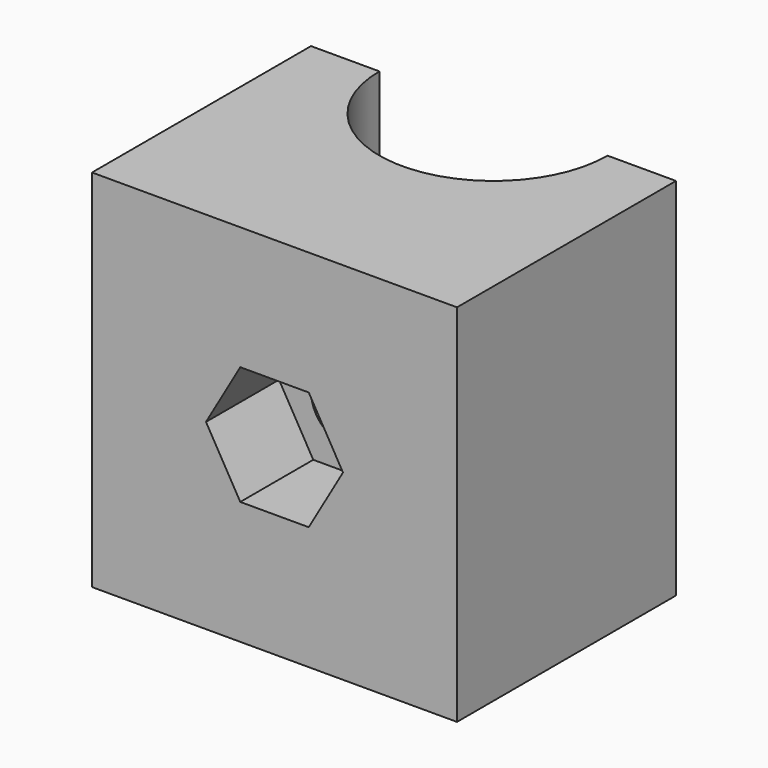
from build123d import *

# Parameters (mm, degrees)
F1_DEPTH = 40
F3_DEPTH = 30.001
F4_DEPTH = 10


with BuildPart() as f1:
    # F0 (on Top) → F1 (new body)
    with BuildSketch(Plane.XY):
        with BuildLine():
            Line((-20, -15), (20, -15))
            Line((20, -15), (20, 15))
            Line((20, 15), (12.5, 15))
            ThreePointArc((12.5, 15), (0, 2.5), (-12.5, 15))
            Line((-12.5, 15), (-20, 15))
            Line((-20, 15), (-20, -15))
        make_face()
    extrude(amount=F1_DEPTH)

    # F2 (on face) → F3 (cut, through all)
    with BuildSketch(Plane.XZ.offset(15)):
        with BuildLine():
            Line((0, 20), (-4, 20))
            ThreePointArc((-4, 20), (-2.8284271247, 17.1715728753), (0, 16))
            Line((0, 16), (0, 20))
        make_face()
        with BuildLine():
            Line((4, 20), (0, 20))
            Line((0, 20), (0, 16))
            ThreePointArc((0, 16), (2.8284271247, 17.1715728753), (4, 20))
        make_face()
        with BuildLine():
            Line((0, 24), (0, 20))
            Line((0, 20), (4, 20))
            ThreePointArc((4, 20), (2.8284271247, 22.8284271247), (0, 24))
        make_face()
        with BuildLine():
            ThreePointArc((0, 24), (-2.8284271247, 22.8284271247), (-4, 20))
            Line((-4, 20), (0, 20))
            Line((0, 20), (0, 24))
        make_face()
    extrude(amount=-F3_DEPTH, mode=Mode.SUBTRACT)

    # F2 (on face) → F4 (cut)
    with BuildSketch(Plane.XZ.offset(15)):
        with BuildLine():
            ThreePointArc((4, 20), (2.8284271247, 17.1715728753), (0, 16))
            Line((0, 16), (0, 13.5))
            Line((0, 13.5), (3.7527767497, 13.5))
            Line((3.7527767497, 13.5), (7.5055534995, 20))
            Line((7.5055534995, 20), (4, 20))
        make_face()
        with BuildLine():
            Line((0, 26.5), (0, 24))
            ThreePointArc((0, 24), (2.8284271247, 22.8284271247), (4, 20))
            Line((4, 20), (7.5055534995, 20))
            Line((7.5055534995, 20), (3.7527767497, 26.5))
            Line((3.7527767497, 26.5), (0, 26.5))
        make_face()
        with BuildLine():
            Line((-3.7527767497, 26.5), (-7.5055534995, 20))
            Line((-7.5055534995, 20), (-4, 20))
            ThreePointArc((-4, 20), (-2.8284271247, 22.8284271247), (0, 24))
            Line((0, 24), (0, 26.5))
            Line((0, 26.5), (-3.7527767497, 26.5))
        make_face()
        with BuildLine():
            Line((-4, 20), (-7.5055534995, 20))
            Line((-7.5055534995, 20), (-3.7527767497, 13.5))
            Line((-3.7527767497, 13.5), (0, 13.5))
            Line((0, 13.5), (0, 16))
            ThreePointArc((0, 16), (-2.8284271247, 17.1715728753), (-4, 20))
        make_face()
    extrude(amount=-F4_DEPTH, mode=Mode.SUBTRACT)


with BuildPart() as f5_1:
    # F5: copy of F1
    add(f1.part)


solid = Compound([f1.part, f5_1.part])
